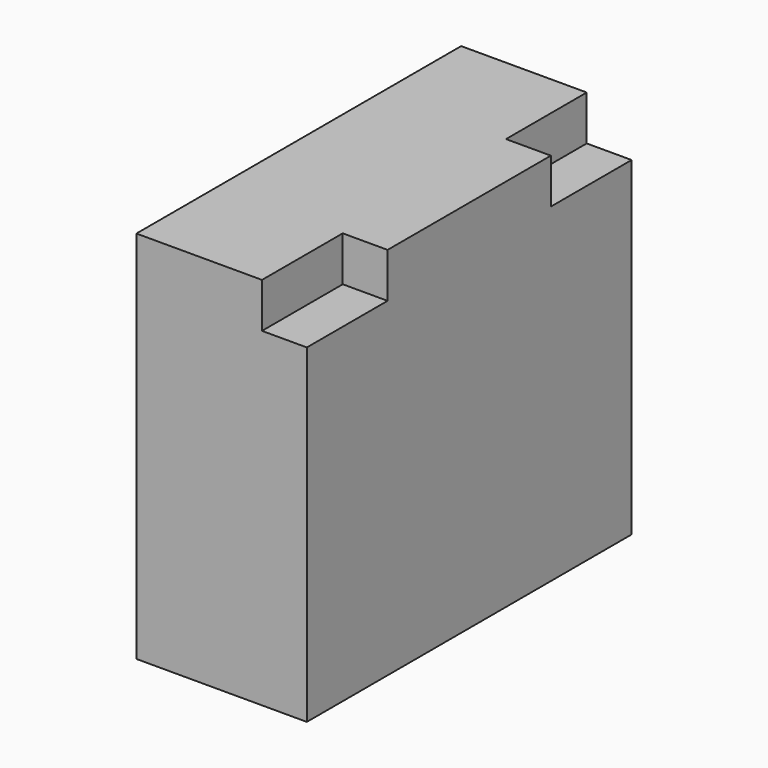
from build123d import *

# Parameters (mm, degrees)
F0_W     = 181
F0_H     = 167
F1_DEPTH = 76
F2_W     = 45
F2_H     = 20
F3_DEPTH = 20
F4_W     = 45
F4_H     = 20
F5_DEPTH = 20


with BuildPart() as f1:
    # F0 (on Right) → F1 (new body)
    with BuildSketch(Plane.YZ):
        with Locations((-1.121614, 20.87992)):
            Rectangle(F0_W, F0_H)
    extrude(amount=F1_DEPTH)

    # F2 (on face) → F3 (cut)
    with BuildSketch(Plane.YZ.offset(76)):
        with Locations((-69.121614, 94.37992)):
            Rectangle(F2_W, F2_H)
    extrude(amount=-F3_DEPTH, mode=Mode.SUBTRACT)

    # F4 (on face) → F5 (cut)
    with BuildSketch(Plane.YZ.offset(76)):
        with Locations((66.878386, 94.37992)):
            Rectangle(F4_W, F4_H)
    extrude(amount=-F5_DEPTH, mode=Mode.SUBTRACT)


solid = f1.part
